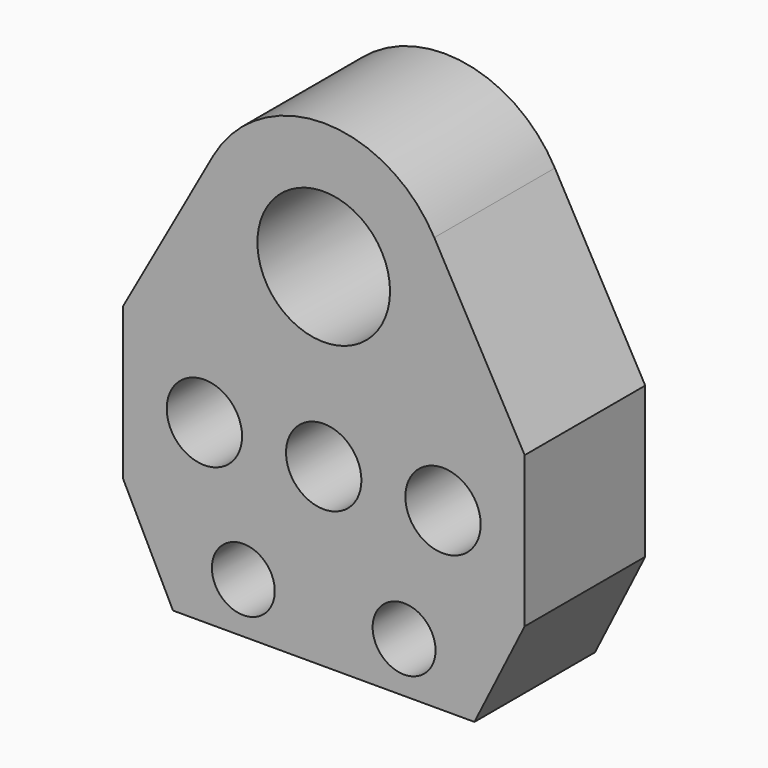
from build123d import *

# Parameters (mm, degrees)
F0_R     = 4.7625
F0_R_2   = 3.9751
F0_R_3   = 8.382
F1_DEPTH = 19.05


with BuildPart() as f1:
    # F0 (on Front) → F1 (new body)
    with BuildSketch(Plane.XZ):
        with BuildLine():
            Line((-21.522994, -26.803682), (-18.347994, -33.153681))
            Line((-18.347994, -33.153681), (19.752006, -33.153681))
            Line((19.752006, -33.153681), (26.102006, -20.453681))
            Line((26.102006, -20.453681), (26.102006, -1.403681))
            Line((26.102006, -1.403681), (14.679012, 19.087809))
            ThreePointArc((14.679012, 19.087809), (0.702006, 27.298319), (-13.274999, 19.087809))
            Line((-13.274999, 19.087809), (-24.697994, -1.403681))
            Line((-24.697994, -1.403681), (-24.697994, -20.453681))
            Line((-24.697994, -20.453681), (-21.522994, -26.803682))
        make_face()
        with BuildLine():
            ThreePointArc((-5.482894, -26.803682), (-9.457994, -30.778782), (-13.433094, -26.803682))
            ThreePointArc((-13.433094, -26.803682), (-9.457994, -22.828582), (-5.482894, -26.803682))
        make_face(mode=Mode.SUBTRACT)
        with Locations((-14.379244, -10.928681)):
            Circle(F0_R, mode=Mode.SUBTRACT)
        with Locations((10.862006, -26.803681)):
            Circle(F0_R_2, mode=Mode.SUBTRACT)
        with Locations((0.702006, -10.928681)):
            Circle(F0_R, mode=Mode.SUBTRACT)
        with Locations((15.783256, -10.928681)):
            Circle(F0_R, mode=Mode.SUBTRACT)
        with Locations((0.702006, 11.296319)):
            Circle(F0_R_3, mode=Mode.SUBTRACT)
    extrude(amount=F1_DEPTH)


solid = f1.part
